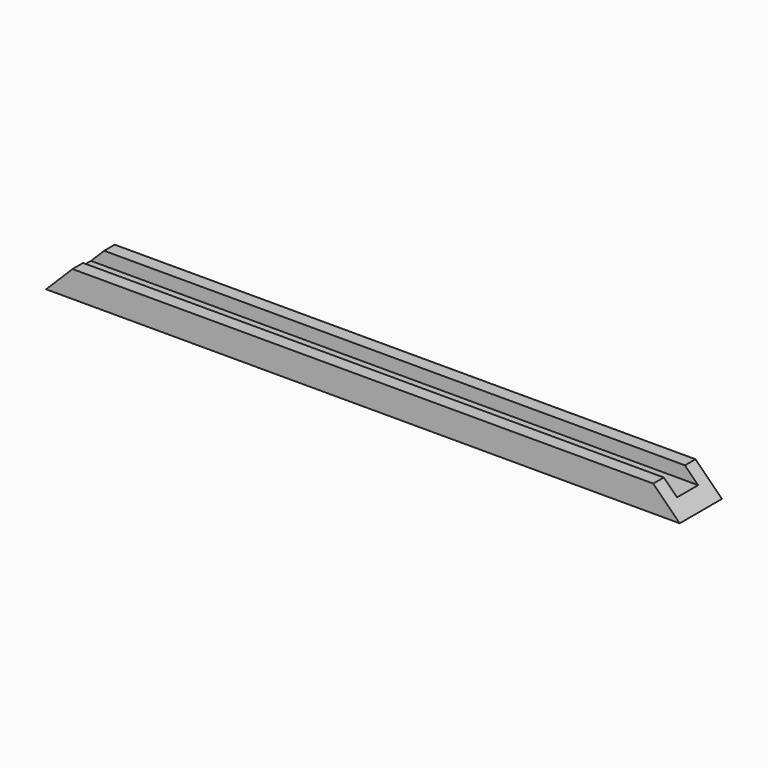
from build123d import *

# Parameters (mm, degrees)
F1_DEPTH = 152.4
F3_DEPTH = 6.35


with BuildPart() as f1:
    # F0 (on Right) → F1 (new body)
    with BuildSketch(Plane.YZ):
        Polygon((6.35, -3.175), (6.35, 3.175), (3.175, 3.175), (3.175, 0), (-3.175, 0), (-3.175, 3.175), (-6.35, 3.175), (-6.35, -3.175), align=None)
    extrude(amount=F1_DEPTH)

    # F2 (on Front) → F3 (cut, symmetric)
    with BuildSketch(Plane.XZ):
        Polygon((0, 3.175), (0, -3.175), (6.35, 3.175), align=None)
        Polygon((146.05, 3.175), (152.4, -3.175), (152.4, 3.175), align=None)
    extrude(amount=F3_DEPTH, both=True, mode=Mode.SUBTRACT)


solid = f1.part
